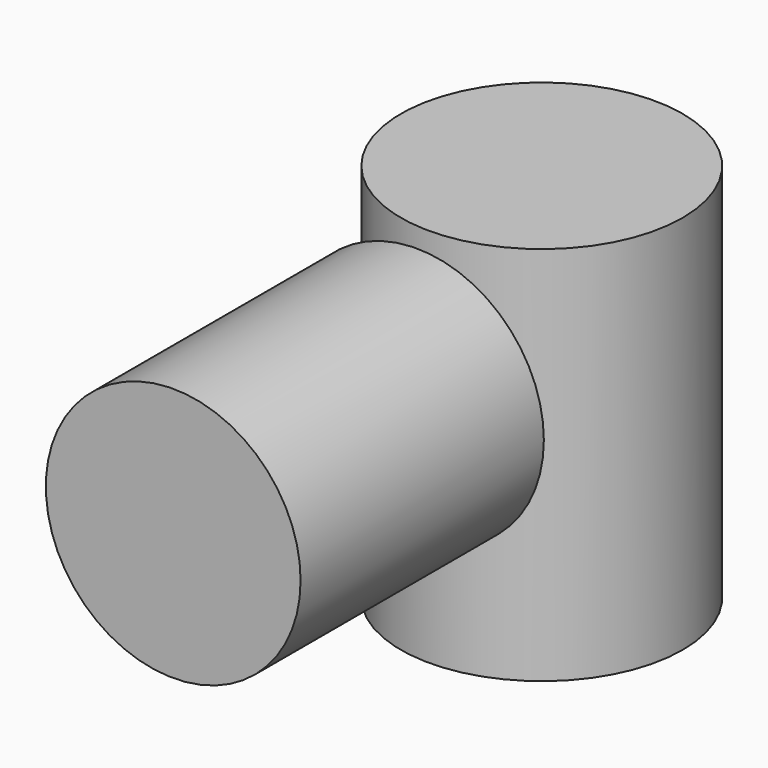
from build123d import *

# Parameters (mm, degrees)
F0_R     = 17.150583
F1_DEPTH = 40.942162
F2_R     = 18.973461
F3_DEPTH = 51.216312


with BuildPart() as f1:
    # F0 (on Front) → F1 (new body)
    with BuildSketch(Plane.XZ):
        with Locations((21.135917, 32.827832)):
            Circle(F0_R)
    extrude(amount=F1_DEPTH)


with BuildPart() as f3:
    # F2 (on Top) → F3 (new body)
    with BuildSketch(Plane.XY):
        with Locations((21.16894, 21.045448)):
            Circle(F2_R)
    extrude(amount=F3_DEPTH)


solid = Compound([f1.part, f3.part])
